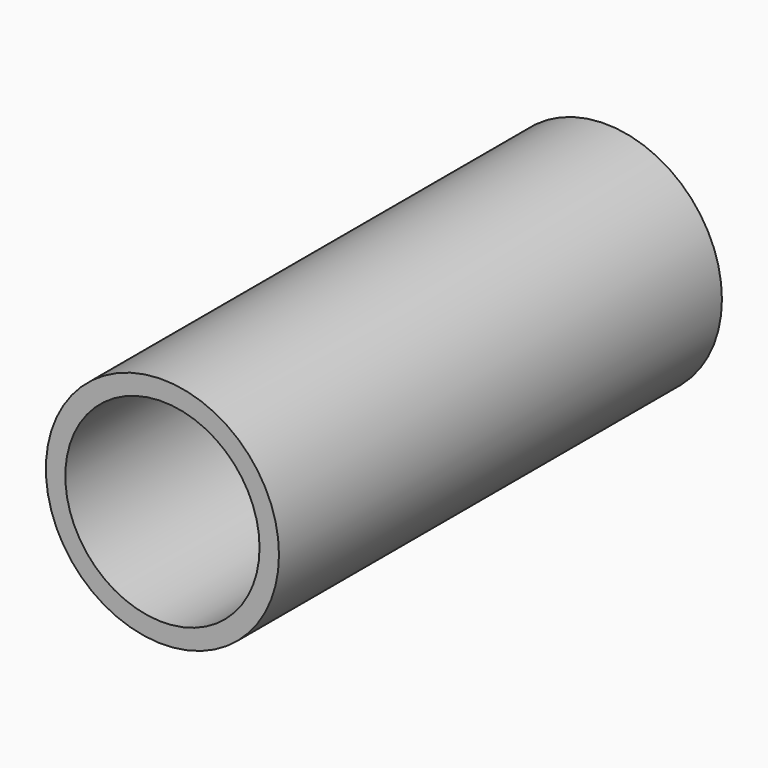
from build123d import *

# Parameters (mm, degrees)
F0_R     = 19.05
F0_R_2   = 15.875
F1_DEPTH = 90.4875
F2_DEPTH = 3.175


with BuildPart() as f1:
    # F0 (on Front) → F1 (new body)
    with BuildSketch(Plane.XZ):
        Circle(F0_R)
        Circle(F0_R_2, mode=Mode.SUBTRACT)
    extrude(amount=F1_DEPTH)

    # F0 (on Front) → F2 (join)
    with BuildSketch(Plane.XZ):
        Circle(F0_R_2)
        with BuildLine():
            ThreePointArc((3.4370383213, 1.984375), (3.8335181231, 1.0271880853), (3.96875, 0))
            ThreePointArc((3.96875, 0), (-3.8335181231, -1.0271880853), (3.4370383213, 1.984375))
        make_face(mode=Mode.SUBTRACT)
        with BuildLine():
            ThreePointArc((12.217641971, 4.7625), (9.2760800563, 0.9289818769), (4.8118536498, 2.778125))
            ThreePointArc((4.8118536498, 2.778125), (7.2217038858, 8.5960181231), (12.217641971, 4.7625))
        make_face(mode=Mode.SUBTRACT)
    extrude(amount=F2_DEPTH)


solid = f1.part
